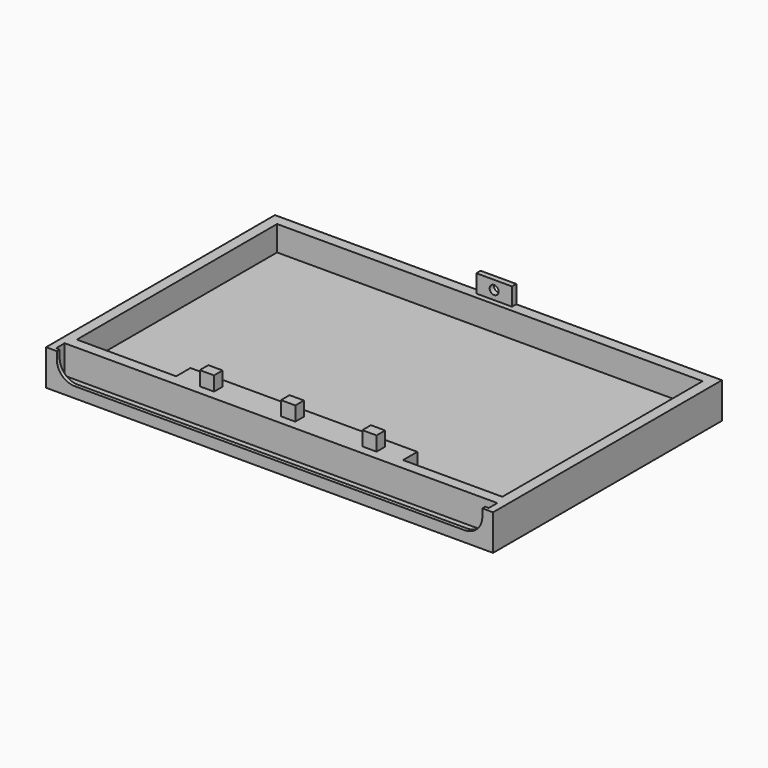
from build123d import *

# Parameters (mm, degrees)
F0_W      = 125
F0_H      = 80
F1_DEPTH  = 10
F3_DEPTH  = 7
F4_W      = 10
F4_H      = 1.5
F5_DEPTH  = 5
F6_R      = 1.25
F7_DEPTH  = 25
F8_W      = 4
F8_H      = 3
F9_DEPTH  = 4
F11_DEPTH = 4
F12_W     = 121
F12_H     = 3
F13_DEPTH = 8


with BuildPart() as f1:
    # F0 (on Top) → F1 (new body)
    with BuildSketch(Plane.XY):
        Rectangle(F0_W, F0_H)
    extrude(amount=F1_DEPTH)

    # F2 (on face) → F3 (cut)
    with BuildSketch(Plane.XY.offset(10)):
        Polygon((59.5, 37), (-59.5, 37), (-59.5, -33), (-31.725, -33), (-31.725, -28), (31.725, -28), (31.725, -33), (59.5, -33), align=None)
    extrude(amount=-F3_DEPTH, mode=Mode.SUBTRACT)

    # F4 (on face) → F5 (join)
    with BuildSketch(Plane.XY.offset(10)):
        with Locations((0, 39.25)):
            Rectangle(F4_W, F4_H)
    extrude(amount=F5_DEPTH)

    # F6 (on face) → F7 (cut)
    with BuildSketch(Plane(origin=(0, 40, 0), x_dir=(-1, 0, 0), z_dir=(0, 1, 0))):
        with Locations((0, 12.5)):
            Circle(F6_R)
    extrude(amount=-F7_DEPTH, mode=Mode.SUBTRACT)

    # F8 (on face) → F9 (join)
    with BuildSketch(Plane.XY.offset(10)):
        with Locations((0, -32)):
            Rectangle(F8_W, F8_H)
        with Locations((22.725, -32)):
            Rectangle(F8_W, F8_H)
        with Locations((-22.725, -32)):
            Rectangle(F8_W, F8_H)
    extrude(amount=F9_DEPTH)

    # F10 (on face) → F11 (cut)
    with BuildSketch(Plane.XZ.offset(40)):
        with BuildLine():
            ThreePointArc((54.551, 3), (58.050471, 4.449529), (59.5, 7.949))
            Line((59.5, 7.949), (59.5, 10))
            Line((59.5, 10), (0, 10))
            Line((0, 10), (-59.5, 10))
            Line((-59.5, 10), (-59.5, 7.949))
            ThreePointArc((-59.5, 7.949), (-58.050471, 4.449529), (-54.551, 3))
            Line((-54.551, 3), (0, 3))
            Line((0, 3), (54.551, 3))
        make_face()
    extrude(amount=-F11_DEPTH, mode=Mode.SUBTRACT)

    # F12 (on face) → F13 (cut)
    with BuildSketch(Plane.XY.offset(10)):
        with Locations((0, -37.5)):
            Rectangle(F12_W, F12_H)
    extrude(amount=-F13_DEPTH, mode=Mode.SUBTRACT)


solid = f1.part
